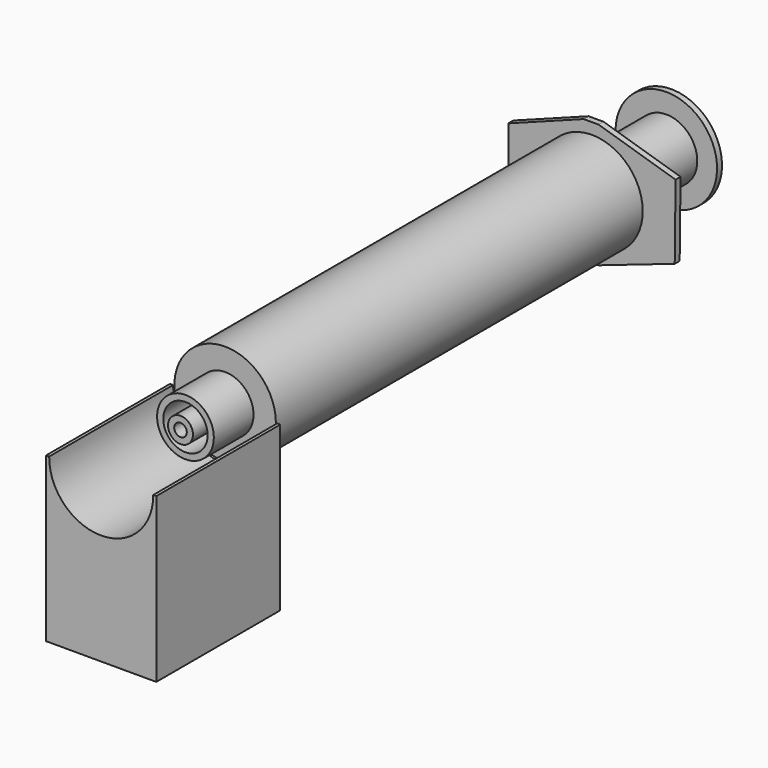
from build123d import *

# Parameters (mm, degrees)
F0_R      = 8.195
F1_DEPTH  = 75
F2_R      = 7.5
F3_DEPTH  = 1
F4_R      = 8
F5_DEPTH  = 74
F6_R      = 4.58
F6_R_2    = 3.58
F7_DEPTH  = 8
F8_R      = 2.015
F9_DEPTH  = 9
F10_R     = 1.015
F11_DEPTH = 75
F12_R     = 7.9
F13_DEPTH = 6
F14_R     = 5
F15_DEPTH = 82
F16_R     = 8.195
F17_DEPTH = 1
F19_DEPTH = 25


with BuildPart() as f1:
    # F0 (on Front) → F1 (new body)
    with BuildSketch(Plane.XZ):
        Circle(F0_R)
    extrude(amount=F1_DEPTH)

    # F2 (on Front) → F3 (join)
    with BuildSketch(Plane.XZ):
        Polygon((-1.3292512043, 10), (-13.5, 5.4313159715), (-13.5, -5.4313159715), (-1.3292512043, -10), (1.0640330359, -10), (13.3624045773, -5.7869182979), (13.5, 6.2122928219), (1.0640330359, 10), align=None)
        Circle(F2_R, mode=Mode.SUBTRACT)
    extrude(amount=F3_DEPTH)

    # F4 (on Front) → F5 (cut)
    with BuildSketch(Plane.XZ):
        Circle(F4_R)
    extrude(amount=F5_DEPTH, mode=Mode.SUBTRACT)

    # F6 (on face) → F7 (join)
    with BuildSketch(Plane.XZ.offset(75)):
        Circle(F6_R)
        Circle(F6_R_2, mode=Mode.SUBTRACT)
    extrude(amount=F7_DEPTH)

    # F8 (on face) → F9 (join)
    with BuildSketch(Plane.XZ.offset(75)):
        Circle(F8_R)
    extrude(amount=F9_DEPTH)

    # F10 (on face) → F11 (cut)
    with BuildSketch(Plane.XZ.offset(84)):
        Circle(F10_R)
    extrude(amount=-F11_DEPTH, mode=Mode.SUBTRACT)


with BuildPart() as f13:
    # F12 (on face) → F13 (new body)
    with BuildSketch(Plane(origin=(0, -74, 0), x_dir=(-1, 0, 0), z_dir=(0, 1, 0))):
        Circle(F12_R)
    extrude(amount=F13_DEPTH)

    # F14 (on face) → F15 (join)
    with BuildSketch(Plane(origin=(0, -68, 0), x_dir=(-1, 0, 0), z_dir=(0, 1, 0))):
        Circle(F14_R)
    extrude(amount=F15_DEPTH)

    # F16 (on face) → F17 (join)
    with BuildSketch(Plane(origin=(0, 14, 0), x_dir=(-1, 0, 0), z_dir=(0, 1, 0))):
        Circle(F16_R)
    extrude(amount=F17_DEPTH)


with BuildPart() as f19:
    # F18 (on face) → F19 (new body)
    with BuildSketch(Plane.XZ.offset(75)):
        with BuildLine():
            ThreePointArc((8.395, 0), (0, -8.5005856218), (-8.395, 0))
            Line((-8.395, 0), (-8.895, 0))
            Line((-8.895, 0), (-8.895, -26.4))
            Line((-8.895, -26.4), (8.895, -26.4))
            Line((8.895, -26.4), (8.895, 0))
            Line((8.895, 0), (8.395, 0))
        make_face()
    extrude(amount=F19_DEPTH)


solid = Compound([f1.part, f13.part, f19.part])
